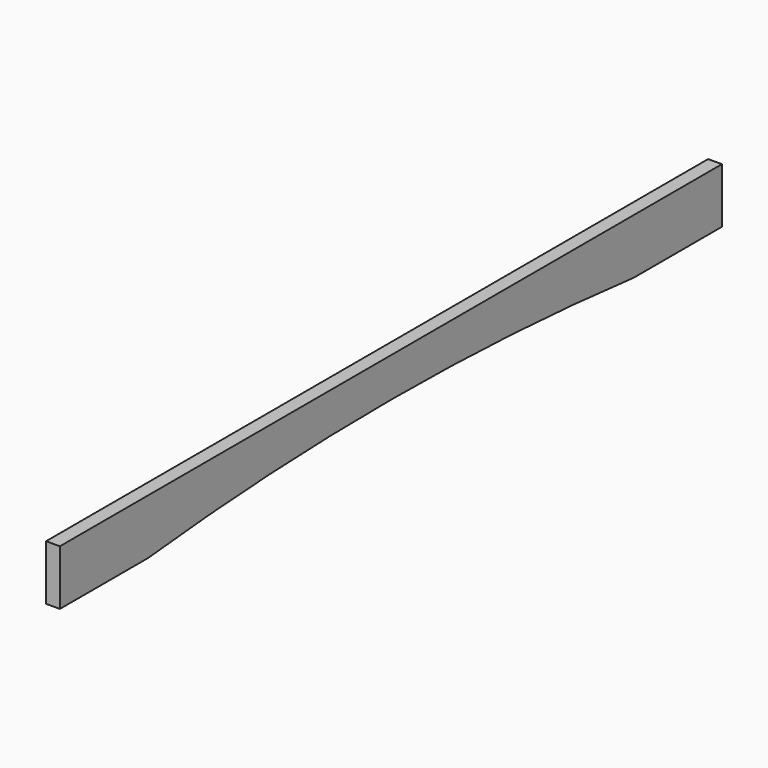
from build123d import *

# Parameters (mm, degrees)
F1_DEPTH = 25.4


with BuildPart() as f1:
    # F0 (on Right) → F1 (new body)
    with BuildSketch(Plane.YZ):
        with BuildLine():
            Line((802.025026, 101.6), (-721.974974, 101.6))
            Line((-721.974974, 101.6), (-721.974974, 0))
            Line((-721.974974, 0), (-518.774974, 0))
            ThreePointArc((-518.774974, 0), (40.025026, 29.320061), (598.825026, 0))
            Line((598.825026, 0), (802.025026, 0))
            Line((802.025026, 0), (802.025026, 101.6))
        make_face()
    extrude(amount=-F1_DEPTH)


solid = f1.part
